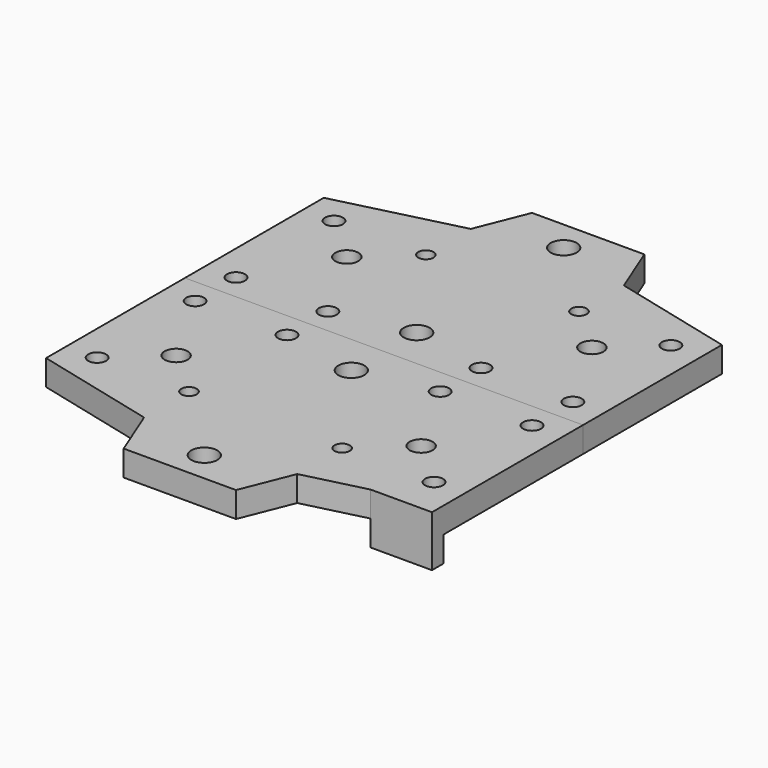
from build123d import *

# Parameters (mm, degrees)
F0_W     = 78
F0_H     = 34
F0_R     = 1.75
F0_R_2   = 2.25
F0_R_3   = 2.55
F0_R_4   = 1.5
F1_DEPTH = 5
F4_DEPTH = 5
F5_W     = 12
F5_H     = 2.8
F6_DEPTH = 5


with BuildPart() as f1:
    # F0 (on Top) → F1 (new body)
    with BuildSketch(Plane.XY):
        Rectangle(F0_W, F0_H)
        with Locations((-33, -12)):
            Circle(F0_R, mode=Mode.SUBTRACT)
        with Locations((-15, -12)):
            Circle(F0_R, mode=Mode.SUBTRACT)
        with Locations((-24, 3.9)):
            Circle(F0_R_2, mode=Mode.SUBTRACT)
        with Locations((15, -12)):
            Circle(F0_R, mode=Mode.SUBTRACT)
        with Locations((0, -9)):
            Circle(F0_R_3, mode=Mode.SUBTRACT)
        with Locations((33, -12)):
            Circle(F0_R, mode=Mode.SUBTRACT)
        with Locations((24, 3.9)):
            Circle(F0_R_2, mode=Mode.SUBTRACT)
        with Locations((-33, 12)):
            Circle(F0_R, mode=Mode.SUBTRACT)
        with Locations((-15, 12)):
            Circle(F0_R_4, mode=Mode.SUBTRACT)
        with Locations((15, 12)):
            Circle(F0_R_4, mode=Mode.SUBTRACT)
        with Locations((33, 12)):
            Circle(F0_R, mode=Mode.SUBTRACT)
        Polygon((-39, 17), (39, 17), (15, 23), (11, 33), (-11, 33), (-15, 23), align=None)
        with Locations((0, 27)):
            Circle(F0_R_3, mode=Mode.SUBTRACT)
    extrude(amount=F1_DEPTH)


with BuildPart() as f2_1:
    # F2: instance of F1
    add(f1.part.mirror(Plane(origin=(0, -17, 2.5), x_dir=(1, 0, 0), z_dir=(0, -1, 0))))

    # F3 (on face) → F4 (join, through all)
    with BuildSketch(Plane.XY.offset(5)):
        Polygon((39, -51), (27, -54), (39, -54), align=None)
    extrude(amount=-F4_DEPTH)

    # F5 (on face) → F6 (join)
    with BuildSketch(Plane(origin=(0, 0, 0), x_dir=(1, 0, 0), z_dir=(0, 0, -1))):
        with Locations((33, 52.6)):
            Rectangle(F5_W, F5_H)
    extrude(amount=F6_DEPTH)


solid = Compound([f1.part, f2_1.part])
